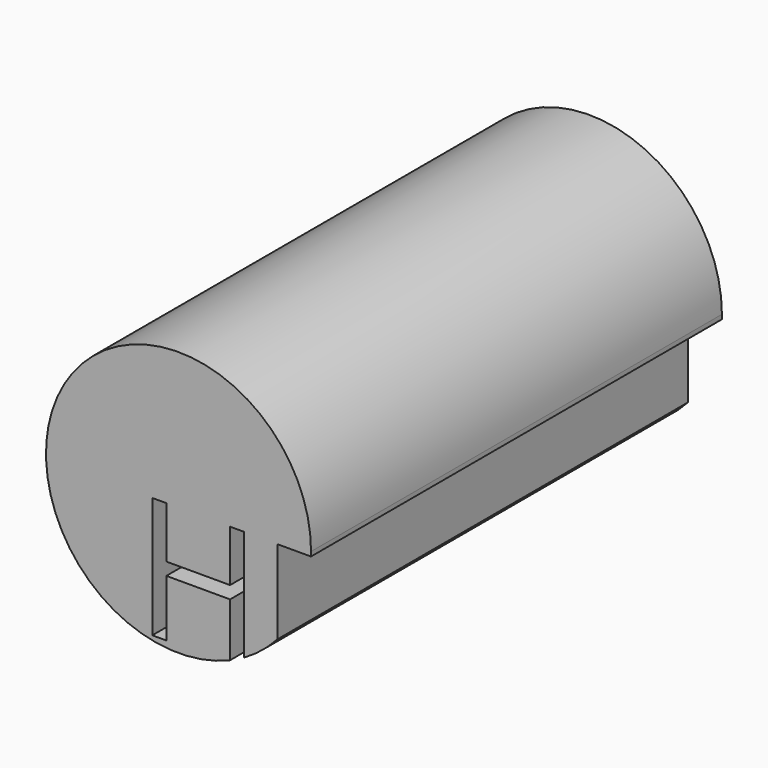
from build123d import *

# Parameters (mm, degrees)
F1_DEPTH = 492.76


with BuildPart() as f1:
    # F0 (on Front) → F1 (new body)
    with BuildSketch(Plane.XZ):
        with BuildLine():
            ThreePointArc((113.0446196853, -228.9515694952), (113.0990389698, -226.8043702106), (113.1171804569, -224.6565580416))
            ThreePointArc((113.1171804569, -224.6565580416), (-119.9975831413, -154.377235069), (35.4273035366, -341.7932985377))
            Line((35.4273035366, -341.7932985377), (35.4273035366, -290.3828003979))
            Line((35.4273035366, -290.3828003979), (-25.699183765, -290.3828003979))
            Line((-25.699183765, -290.3828003979), (-25.699183765, -344.982695578))
            Line((-25.699183765, -344.982695578), (-39.1840881095, -344.982695578))
            Line((-39.1840881095, -344.982695578), (-39.1840881095, -228.9515694952))
            Line((-39.1840881095, -228.9515694952), (-25.699183765, -228.9515694952))
            Line((-25.699183765, -228.9515694952), (-25.699183765, -278.3200328581))
            Line((-25.699183765, -278.3200328581), (35.4273035366, -278.3200328581))
            Line((35.4273035366, -278.3200328581), (35.4273035366, -228.9515694952))
            Line((35.4273035366, -228.9515694952), (48.9122078811, -228.9515694952))
            Line((48.9122078811, -228.9515694952), (48.9122078811, -335.133745888))
            ThreePointArc((48.9122078811, -335.133745888), (65.8626921915, -323.5704078326), (80.7325188861, -309.4311730792))
            Line((80.7325188861, -309.4311730792), (80.7325188861, -228.9515694952))
            Line((80.7325188861, -228.9515694952), (113.0446196853, -228.9515694952))
        make_face()
    extrude(amount=F1_DEPTH)


solid = f1.part
